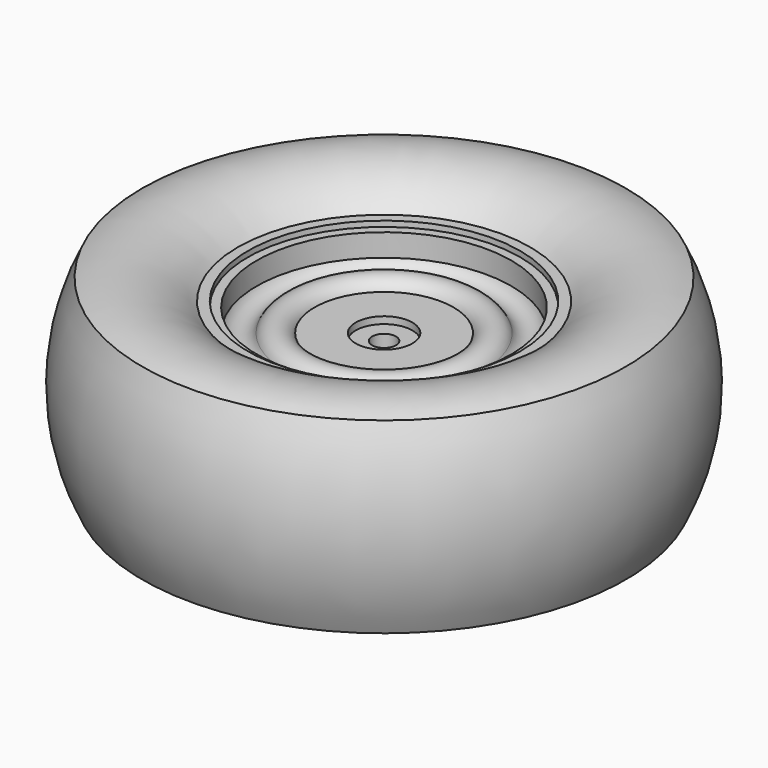
from build123d import *

# Parameters (mm, degrees)
F5_DEPTH = 4.6
F8_T     = -1.5


with BuildPart() as f2:
    # F0 (on Front) → F2 (revolve)
    with BuildSketch(Plane.XZ):
        Polygon((26.3, -1.9), (26.3, 0), (24.5, 0), (24.5, -1), (22.9, -1), (22.9, -26.25), (26.3, -26.25), (26.3, -24.35), (24.25, -24.35), (24.25, -1.9), align=None)
    revolve(axis=Axis((0, 0, -13.125), (0, 0, -1)))

    # F1 (on Front) → F3 (revolve)
    with BuildSketch(Plane.XZ):
        with BuildLine():
            Line((2.15, -6.3), (2.15, -13.55))
            Line((2.15, -13.55), (7.877463, -13.55))
            Line((7.877463, -13.55), (7.877463, -7.55))
            Line((7.877463, -7.55), (14.090909, -7.55))
            Line((14.090909, -7.55), (14.764706, -6.108824))
            ThreePointArc((14.764706, -6.108824), (15.25, -5.8), (15.735294, -6.108824))
            ThreePointArc((15.735294, -6.108824), (18.804609, -8.842155), (22.9, -8.496364))
            Line((22.9, -8.496364), (22.9, -5.05))
            ThreePointArc((22.9, -5.05), (20.45, -6.609091), (18, -5.05))
            ThreePointArc((18, -5.05), (15.25, -3.3), (12.5, -5.05))
            Line((12.5, -5.05), (5.1, -5.05))
            Line((5.1, -5.05), (5.1, -6.3))
            Line((5.1, -6.3), (2.15, -6.3))
        make_face()
    revolve(axis=Axis((0, 0, -13.125), (0, 0, -1)))

    # F4 (on face) → F5 (cut)
    with BuildSketch(Plane(origin=(0, 0, -13.55), x_dir=(1, 0, 0), z_dir=(0, 0, -1))):
        Polygon((6.125, 3.53627), (0, 7.072541), (-6.125, 3.53627), (-6.125, -3.53627), (0, -7.072541), (6.125, -3.53627), align=None)
    extrude(amount=-F5_DEPTH, mode=Mode.SUBTRACT)


with BuildPart() as f7:
    # F6 (on Front) → F7 (revolve)
    with BuildSketch(Plane.XZ):
        with BuildLine():
            Line((-26.3, -26.25), (-26.3, 0))
            ThreePointArc((-26.3, 0), (-34.293896, 4.657646), (-43.5, 3.73913))
            ThreePointArc((-43.5, 3.73913), (-47.5, -13.125), (-43.5, -29.98913))
            ThreePointArc((-43.5, -29.98913), (-34.293896, -30.907646), (-26.3, -26.25))
        make_face()
    revolve(axis=Axis((0, 0, -13.125), (0, 0, -1)))

    # F8
    f8_openings = [f7.faces().sort_by_distance(p)[0] for p in [
        (26.3, 0, -13.125),
    ]]
    offset(amount=F8_T, openings=f8_openings)


solid = Compound([f2.part, f7.part])
